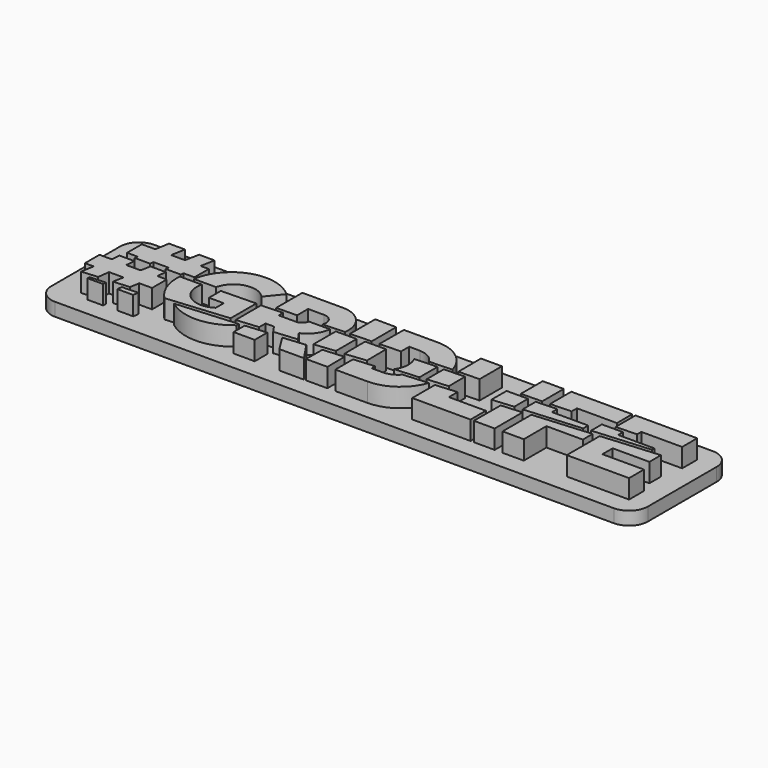
from build123d import *

# Parameters (mm, degrees)
F1_DEPTH = 5
F2_W     = 158.084507
F2_H     = 32.761941
F3_DEPTH = 3.5
F4_R     = 5


with BuildPart() as f1:
    # F0 (on Top) → F1 (new body)
    with BuildSketch(Plane.XY):
        Polygon((-66.835716, 7.404115), (-70.402846, 7.404115), (-70.402846, 2.529933), (-70.28351, 2.529933), (-67.59841, 2.529933), (-67.761168, 1.6958), (-63.683233, 1.6958), (-63.492581, 2.672884), (-59.514961, 2.672884), (-59.676733, 1.843806), (-55.662069, 1.843806), (-55.505164, 2.64794), (-52.658658, 2.64794), (-52.658658, 7.404115), (-54.853816, 7.404115), (-54.122094, 11.154176), (-58.238015, 11.154176), (-58.969736, 7.404115), (-62.628329, 7.404115), (-61.988078, 11.154176), (-66.195466, 11.154176), align=None)
        Polygon((-66.87738, 0.558417), (-70.861384, 0.558417), (-71.071059, -1.74811), (-74.3002, -1.74811), (-74.3002, -6.570847), (-71.993679, -6.570847), (-72.580792, -10.009668), (-68.303235, -9.674174), (-67.925803, -6.570847), (-64.06761, -6.570847), (-64.612791, -9.422553), (-60.335234, -9.087058), (-59.915863, -6.570847), (-56.518979, -6.570847), (-56.518979, -1.706172), (-59.035193, -1.706172), (-58.699697, 0.768102), (-62.809512, 0.768102), (-63.312754, -1.87392), (-67.129001, -1.87392), align=None)
        Polygon((-65.452553, -10.644578), (-69.630951, -10.860659), (-69.693051, -11.519367), (-65.571167, -11.519367), align=None)
        Polygon((-57.399604, -9.997471), (-61.638691, -10.172023), (-61.838176, -11.443748), (-57.624027, -11.443748), align=None)
        with BuildLine():
            Line((-36.397588, 4.535567), (-33.08272, 8.626254))
            ThreePointArc((-33.08272, 8.626254), (-44.687214, 11.134901), (-52.266631, 1.99652))
            Line((-52.266631, 1.99652), (-46.412718, 1.99652))
            ThreePointArc((-46.412718, 1.99652), (-42.180478, 6.32427), (-36.397588, 4.535567))
        make_face()
        with BuildLine():
            Line((-35.344351, 1.490715), (-44.578962, 1.291229))
            Line((-44.578962, 1.291229), (-44.578962, -2.628939))
            Line((-44.578962, -2.628939), (-40.670823, -2.628939))
            Line((-40.670823, -2.628939), (-40.670823, -5.270961))
            ThreePointArc((-40.670823, -5.270961), (-47.217458, -5.13939), (-49.417846, 1.027784))
            Line((-49.417846, 1.027784), (-55.237077, 1.027784))
            ThreePointArc((-55.237077, 1.027784), (-54.510729, -4.137632), (-51.677866, -8.517586))
            Line((-51.677866, -8.517586), (-35.344351, -7.019098))
            Line((-35.344351, -7.019098), (-35.344351, 1.490715))
        make_face()
        with BuildLine():
            Line((-32.432944, -7.940736), (-48.60181, -9.201908))
            ThreePointArc((-48.60181, -9.201908), (-40.429142, -11.839551), (-32.432944, -8.707383))
            Line((-32.432944, -8.707383), (-32.432944, -7.940736))
        make_face()
        with BuildLine():
            Line((-28.3722, 1.659512), (-34.060121, 1.439368))
            Line((-34.060121, 1.439368), (-34.060121, -6.953593))
            Line((-34.060121, -6.953593), (-28.243475, -6.419956))
            Line((-28.243475, -6.419956), (-28.243475, -4.313843))
            Line((-28.243475, -4.313843), (-26.019877, -4.313843))
            Line((-26.019877, -4.313843), (-24.660658, -6.252955))
            Line((-24.660658, -6.252955), (-18.5502, -5.692362))
            Line((-18.5502, -5.692362), (-20.168016, -3.388138))
            ThreePointArc((-20.168016, -3.388138), (-17.451873, -1.239325), (-16.197604, 1.988933))
            Line((-16.197604, 1.988933), (-21.775199, 1.946356))
            ThreePointArc((-21.775199, 1.946356), (-22.488347, 0.704203), (-23.833886, 0.213236))
            Line((-23.833886, 0.213236), (-28.3722, 0.213236))
            Line((-28.3722, 0.213236), (-28.3722, 1.659512))
        make_face()
        with BuildLine():
            Line((-30.890716, 11.176094), (-30.890716, 2.507329))
            Line((-30.890716, 2.507329), (-25.429776, 2.607072))
            Line((-25.429776, 2.607072), (-25.429776, 6.258705))
            Line((-25.429776, 6.258705), (-21.195736, 6.258705))
            ThreePointArc((-21.195736, 6.258705), (-19.054271, 5.140343), (-18.748395, 2.743879))
            Line((-18.748395, 2.743879), (-13.037932, 2.96142))
            ThreePointArc((-13.037932, 2.96142), (-14.685281, 8.689879), (-20.102635, 11.176094))
            Line((-20.102635, 11.176094), (-30.890716, 11.176094))
        make_face()
        Polygon((-25.403205, -7.270217), (-30.988824, -7.768933), (-31.013759, -11.459431), (-25.403205, -11.459431), align=None)
        Polygon((-15.648685, -6.557179), (-21.57669, -7.101033), (-18.857421, -11.506247), (-12.331178, -11.506247), align=None)
        Polygon((-9.18192, 2.038923), (-14.675647, 1.996986), (-14.675647, -5.425835), (-9.18192, -4.83872), align=None)
        Polygon((-6.148492, -5.762743), (-11.684155, -6.182111), (-11.768029, -11.506247), (-6.106554, -11.506247), align=None)
        Polygon((-6.098416, 11.273609), (-11.702335, 11.327995), (-11.702335, 2.95265), (-6.098416, 3.166132), align=None)
        Polygon((-1.543225, 2.248775), (-7.079527, 2.206513), (-7.023776, -4.758451), (-1.494246, -4.167509), align=None)
        with BuildLine():
            Line((1.458331, -5.13136), (-4.069095, -5.550104))
            Line((-4.069095, -5.550104), (-4.069095, -11.447859))
            Line((-4.069095, -11.447859), (4.445817, -11.447859))
            ThreePointArc((4.445817, -11.447859), (10.811723, -9.402031), (14.793924, -4.030603))
            Line((14.793924, -4.030603), (8.213295, -4.520071))
            ThreePointArc((8.213295, -4.520071), (6.484278, -5.80512), (4.381066, -6.271332))
            Line((4.381066, -6.271332), (1.467203, -6.293575))
            Line((1.467203, -6.293575), (1.458331, -5.13136))
        make_face()
        with BuildLine():
            ThreePointArc((5.711567, 2.497951), (6.382802, -0.656055), (5.33087, -3.704291))
            Line((5.33087, -3.704291), (11.693957, -3.269208))
            Line((11.693957, -3.269208), (11.693957, -3.046741))
            Line((11.693957, -3.046741), (11.693957, 2.715492))
            Line((11.693957, 2.715492), (5.711567, 2.497951))
        make_face()
        Polygon((18.8848, 2.871365), (13.391073, 2.661681), (13.391073, -2.999793), (18.926736, -2.580425), align=None)
        with BuildLine():
            Line((-4.09086, 11.314082), (-4.116122, 3.206656))
            Line((-4.116122, 3.206656), (1.461478, 3.416341))
            Line((1.461478, 3.416341), (1.486741, 6.113913))
            Line((1.486741, 6.113913), (4.337804, 6.087213))
            ThreePointArc((4.337804, 6.087213), (6.927762, 5.365353), (8.807292, 3.442768))
            Line((8.807292, 3.442768), (14.844067, 3.714695))
            ThreePointArc((14.844067, 3.714695), (11.177206, 9.195598), (4.932352, 11.314082))
            Line((4.932352, 11.314082), (-4.09086, 11.314082))
        make_face()
        Polygon((16.370067, 11.260871), (16.41126, 3.725325), (21.924857, 3.870674), (21.924857, 11.260871), align=None)
        Polygon((21.985745, -3.506593), (16.329667, -3.941677), (16.329667, -11.447859), (16.513426, -11.447859), (31.775109, -11.447859), (31.775109, -11.338086), (31.775109, -6.389018), (21.985745, -6.389018), align=None)
        Polygon((35.240546, 3.271463), (29.584467, 3.217077), (29.584467, -1.786376), (35.240546, -1.296908), align=None)
        Polygon((38.177356, -2.221459), (32.684434, -2.602156), (32.643907, -11.447859), (38.177356, -11.447859), align=None)
        Polygon((38.255654, 11.322527), (32.684434, 11.322527), (32.684434, 4.083243), (38.255654, 4.198045), align=None)
        Polygon((40.251069, 11.322527), (40.259093, 4.283528), (45.821186, 4.477554), (45.821186, 6.245394), (56.403521, 6.245394), (56.403521, 11.322527), align=None)
        Polygon((42.854518, 3.425319), (37.318774, 3.217077), (37.343707, -1.162868), (52.454799, 0), (52.454799, 1.679813), (42.854518, 1.679813), align=None)
        Polygon((55.523615, -0.683948), (40.259093, -1.910728), (40.259093, -11.447859), (45.878142, -11.447859), (45.878142, -3.941677), (55.523615, -3.941677), align=None)
        Polygon((72.516911, 0.690766), (57.280503, -0.534565), (57.280503, -11.447859), (73.784307, -11.447859), (73.784307, -6.529538), (62.781774, -6.529538), (62.781774, -3.131195), (72.516911, -3.131195), align=None)
        Polygon((59.924811, 3.876617), (54.34721, 3.834681), (54.34721, 0.270049), (69.56729, 1.441303), (69.56729, 2.24108), (59.924811, 2.24108), align=None)
        Polygon((57.280503, 11.322527), (57.280503, 4.752464), (62.819898, 4.902079), (62.819898, 6.32342), (73.635183, 6.32342), (73.635183, 11.322527), align=None)
    extrude(amount=F1_DEPTH)


with BuildPart() as f3:
    # F2 (on face) → F3 (new body)
    with BuildSketch(Plane(origin=(0, 0, 0), x_dir=(1, 0, 0), z_dir=(0, 0, -1))):
        with Locations((-0.257946, 0.066888)):
            Rectangle(F2_W, F2_H)
    extrude(amount=F3_DEPTH)

    # F4
    f4_edges = [f3.edges().sort_by_distance(p)[0] for p in [
        (-79.3002, 16.314082, -1.75),
        (-79.3002, -16.447859, -1.75),
        (78.784307, 16.314082, -1.75),
        (78.784307, -16.447859, -1.75),
    ]]
    fillet(f4_edges, radius=F4_R)


solid = Compound([f1.part, f3.part])
